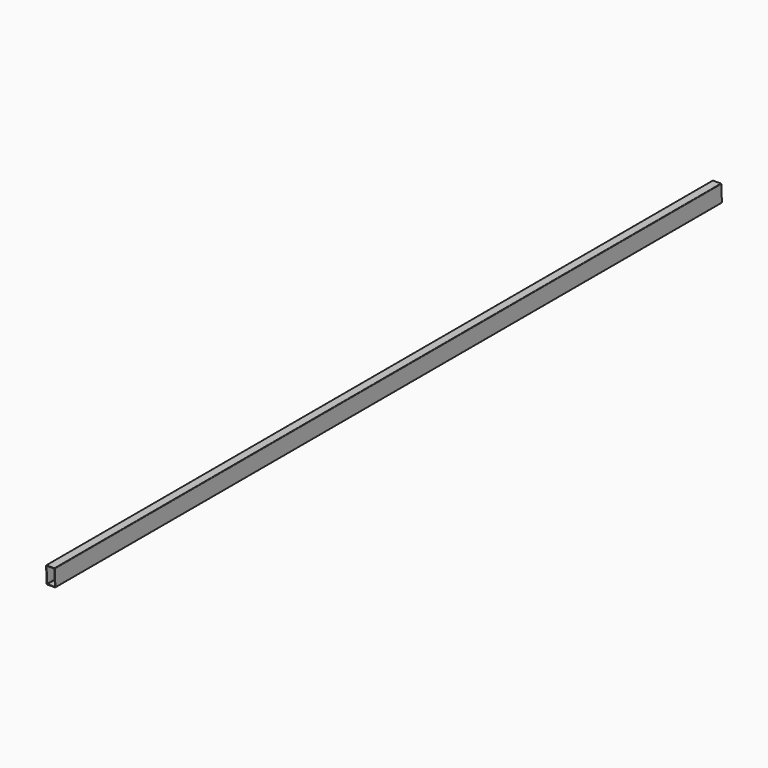
from build123d import *

# Parameters (mm, degrees)
F1_DEPTH = 3655
F3_DEPTH = 38
F5_DEPTH = 38


with BuildPart() as f1:
    # F0 (on Front) → F1 (new body)
    with BuildSketch(Plane.XZ):
        with BuildLine():
            ThreePointArc((0, 2), (0.585786, 0.585786), (2, 0))
            Line((2, 0), (36, 0))
            ThreePointArc((36, 0), (37.414214, 0.585786), (38, 2))
            Line((38, 2), (38, 74))
            ThreePointArc((38, 74), (37.414214, 75.414214), (36, 76))
            Line((36, 76), (2, 76))
            ThreePointArc((2, 76), (0.585786, 75.414214), (0, 74))
            Line((0, 74), (0, 2))
        make_face()
        with BuildLine():
            ThreePointArc((4, 2), (2.585786, 2.585786), (2, 4))
            Line((2, 4), (2, 72))
            ThreePointArc((2, 72), (2.585786, 73.414214), (4, 74))
            Line((4, 74), (34, 74))
            ThreePointArc((34, 74), (35.414214, 73.414214), (36, 72))
            Line((36, 72), (36, 4))
            ThreePointArc((36, 4), (35.414214, 2.585786), (34, 2))
            Line((34, 2), (4, 2))
        make_face(mode=Mode.SUBTRACT)
    extrude(amount=F1_DEPTH)

    # F2 (on face) → F3 (cut)
    with BuildSketch(Plane.YZ.offset(38)):
        Polygon((-3.812936, 76.269533), (0, 0), (0, 76.460153), align=None)
    extrude(amount=-F3_DEPTH, mode=Mode.SUBTRACT)

    # F4 (on face) → F5 (cut)
    with BuildSketch(Plane.YZ.offset(38)):
        Polygon((-3655, 76.016776), (-3655.004636, 0), (-3651.204348, 0), align=None)
    extrude(amount=-F5_DEPTH, mode=Mode.SUBTRACT)


solid = f1.part
